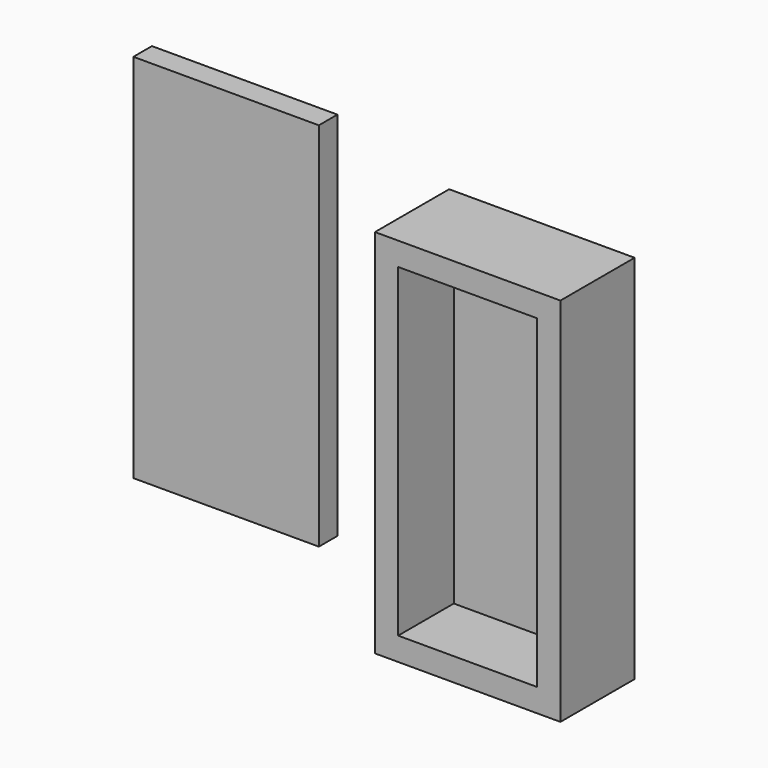
from build123d import *

# Parameters (mm, degrees)
F0_W     = 101.6
F0_H     = 203.2
F0_W_2   = 76.2
F0_H_2   = 177.8
F1_DEPTH = 50.8
F2_DEPTH = 12.7
F3_DEPTH = 12.7


with BuildPart() as f1:
    # F0 (on Front) → F1 (new body)
    with BuildSketch(Plane.XZ):
        Rectangle(F0_W, F0_H)
        Rectangle(F0_W_2, F0_H_2, mode=Mode.SUBTRACT)
    extrude(amount=F1_DEPTH)


with BuildPart() as f2:
    # F0 (on Front) → F2 (new body)
    with BuildSketch(Plane.XZ):
        Rectangle(F0_W_2, F0_H_2)
    extrude(amount=F2_DEPTH)


with BuildPart() as f3:
    # F0 (on Front) → F3 (new body)
    with BuildSketch(Plane.XZ):
        with Locations((-162.807311, 16.082685)):
            Rectangle(F0_W, F0_H)
    extrude(amount=F3_DEPTH)


solid = Compound([f1.part, f2.part, f3.part])
